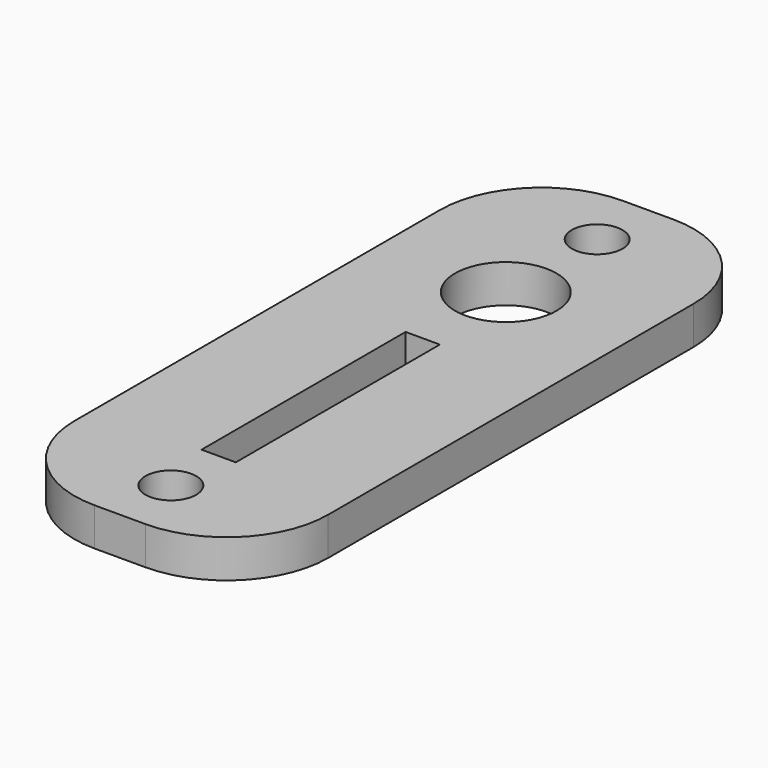
from build123d import *

# Parameters (mm, degrees)
CYLINDER378_R     = 2
CYLINDER378_DEPTH = 70
CYLINDER379_R     = 2
CYLINDER379_DEPTH = 70
CYLINDER377_R     = 4
CYLINDER377_DEPTH = 5
BOX469_W          = 2.7
BOX469_H          = 20.1
BOX469_DEPTH      = 5
BOX468_W          = 20
BOX468_H          = 52
BOX468_DEPTH      = 3
FILLET018_R       = 8


with BuildPart() as cylinder378:
    # Cylinder378 → Cylinder378 (new body)
    with BuildSketch(Plane(origin=(-90, -103, -10), x_dir=(1, 0, 0), z_dir=(0, 0, 1))):
        Circle(CYLINDER378_R)
    extrude(amount=CYLINDER378_DEPTH)


with BuildPart() as fusion371:
    # Cylinder379 → Cylinder379 (new body)
    with BuildSketch(Plane(origin=(-90, -61, -10), x_dir=(1, 0, 0), z_dir=(0, 0, 1))):
        Circle(CYLINDER379_R)
    extrude(amount=CYLINDER379_DEPTH)

    # Fusion371: union Cylinder378
    add(cylinder378.part)


with BuildPart() as fusion371_1:
    # Fusion371 placement: moved
    add(fusion371.part.moved(Location((114, 0, 0))))


with BuildPart() as cylinder377:
    # Cylinder377 → Cylinder377 (new body)
    with BuildSketch(Plane(origin=(24, -70, 39), x_dir=(1, 0, 0), z_dir=(0, 0, 1))):
        Circle(CYLINDER377_R)
    extrude(amount=CYLINDER377_DEPTH)


with BuildPart() as box469:
    # Box469 → Box469 (new body)
    with BuildSketch(Plane(origin=(22.5, -98.1, 39), x_dir=(1, 0, 0), z_dir=(0, 0, 1))):
        with Locations((1.35, 10.05)):
            Rectangle(BOX469_W, BOX469_H)
    extrude(amount=BOX469_DEPTH)


with BuildPart() as cut408:
    # Box468 → Box468 (new body)
    with BuildSketch(Plane(origin=(14, -108, 40.1), x_dir=(1, 0, 0), z_dir=(0, 0, 1))):
        with Locations((10, 26)):
            Rectangle(BOX468_W, BOX468_H)
    extrude(amount=BOX468_DEPTH)

    # Cut406: cut Box469
    add(box469.part, mode=Mode.SUBTRACT)

    # Fillet018
    fillet018_edges = [cut408.edges().sort_by_distance(p)[0] for p in [
        (14, -108, 41.6),
        (14, -56, 41.6),
        (34, -108, 41.6),
        (34, -56, 41.6),
    ]]
    fillet(fillet018_edges, radius=FILLET018_R)

    # Cut407: cut Cylinder377
    add(cylinder377.part, mode=Mode.SUBTRACT)

    # Cut408: cut Fusion371
    add(fusion371_1.part, mode=Mode.SUBTRACT)


with BuildPart() as cut408_1:
    # Cut408 placement: moved
    add(cut408.part.moved(Location((0, 123, 0))))


solid = cut408_1.part
